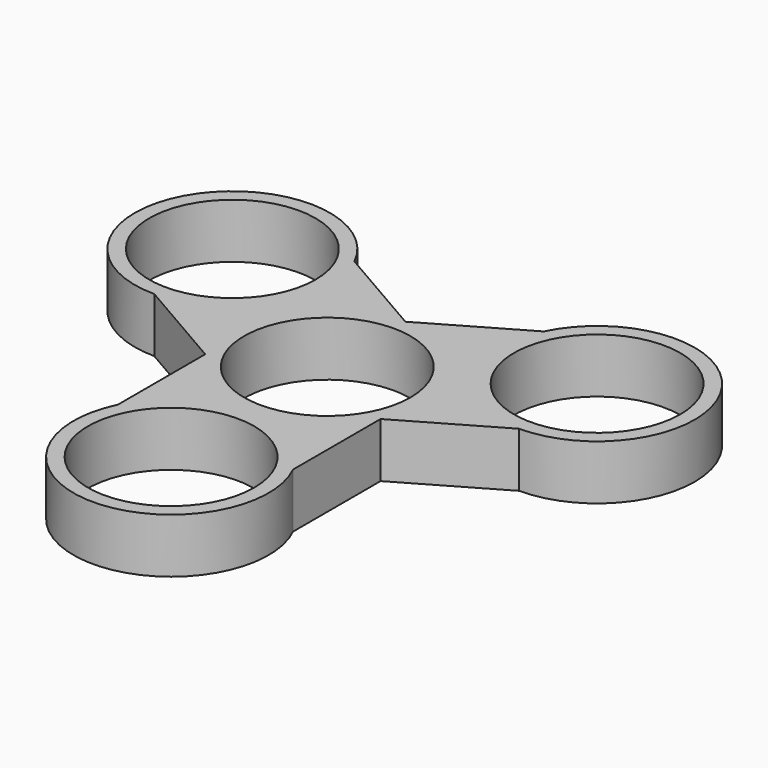
from build123d import *

# Parameters (mm, degrees)
F1_DEPTH = 3.5
F2_R     = 10.65
F3_DEPTH = 7


with BuildPart() as f1:
    # F0 (on Top) → F1 (new body, symmetric)
    with BuildSketch(Plane.XY):
        with BuildLine():
            ThreePointArc((11.2249721603, -5.5), (12.1770717335, -2.8229282665), (12.5, 0))
            ThreePointArc((12.5, 0), (8.8388347648, 8.8388347648), (0, 12.5))
            ThreePointArc((0, 12.5), (-10.6066017178, 6.6143782777), (-11.2249721603, -5.5))
            ThreePointArc((-11.2249721603, -5.5), (0, -12.5), (11.2249721603, -5.5))
        make_face()
        with BuildLine():
            ThreePointArc((0, 12.5), (8.8388347648, 8.8388347648), (12.5, 0))
            ThreePointArc((12.5, 0), (12.1770717335, -2.8229282665), (11.2249721603, -5.5))
            Line((11.2249721603, -5.5), (23.3493278133, 1.5))
            ThreePointArc((23.3493278133, 1.5), (33.9559295311, 20.6143782777), (12.124355653, 19.5))
            Line((12.124355653, 19.5), (0, 12.5))
        make_face()
        with BuildLine():
            ThreePointArc((-11.2249721603, -5.5), (-10.6066017178, 6.6143782777), (0, 12.5))
            Line((0, 12.5), (-12.124355653, 19.5))
            ThreePointArc((-12.124355653, 19.5), (-33.9559295311, 20.6143782777), (-23.3493278133, 1.5))
            Line((-23.3493278133, 1.5), (-11.2249721603, -5.5))
        make_face()
        with BuildLine():
            Line((11.2249721603, -19.5), (11.2249721603, -5.5))
            ThreePointArc((11.2249721603, -5.5), (0, -12.5), (-11.2249721603, -5.5))
            Line((-11.2249721603, -5.5), (-11.2249721603, -19.5))
            ThreePointArc((-11.2249721603, -19.5), (0, -37.5), (11.2249721603, -19.5))
        make_face()
    extrude(amount=F1_DEPTH, both=True)

    # F2 (on face) → F3 (cut, symmetric)
    with BuildSketch(Plane.XY.offset(3.5)):
        with Locations((-23.3493278133, 14)):
            Circle(F2_R)
        Circle(F2_R)
        with Locations((23.3493278133, 14)):
            Circle(F2_R)
        with Locations((0, -25)):
            Circle(F2_R)
    extrude(amount=F3_DEPTH, both=True, mode=Mode.SUBTRACT)


solid = f1.part
